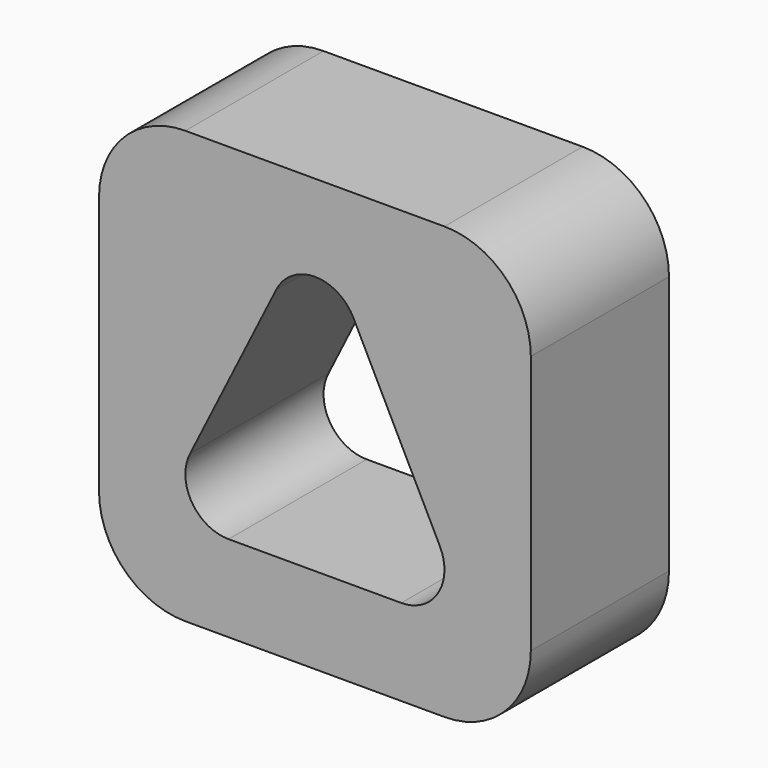
from build123d import *

# Parameters (mm, degrees)
F0_W     = 63.5
F0_H     = 63.5
F1_DEPTH = 25.4
F2_R     = 12.7


with BuildPart() as f1:
    # F0 (on Front) → F1 (new body)
    with BuildSketch(Plane.XZ):
        with Locations((31.75, 31.75)):
            Rectangle(F0_W, F0_H)
        with BuildLine():
            ThreePointArc((19.05, 12.7), (13.648367, 15.711607), (13.370387, 21.889806))
            Line((13.370387, 21.889806), (26.070387, 47.289806))
            ThreePointArc((26.070387, 47.289806), (31.75, 50.8), (37.429613, 47.289806))
            Line((37.429613, 47.289806), (50.129613, 21.889806))
            ThreePointArc((50.129613, 21.889806), (49.851633, 15.711607), (44.45, 12.7))
            Line((44.45, 12.7), (19.05, 12.7))
        make_face(mode=Mode.SUBTRACT)
    extrude(amount=F1_DEPTH)

    # F2
    f2_edges = [f1.edges().sort_by_distance(p)[0] for p in [
        (63.5, -12.7, 63.5),
        (0, -12.7, 63.5),
        (0, -12.7, 0),
        (63.5, -12.7, 0),
    ]]
    fillet(f2_edges, radius=F2_R)


solid = f1.part
